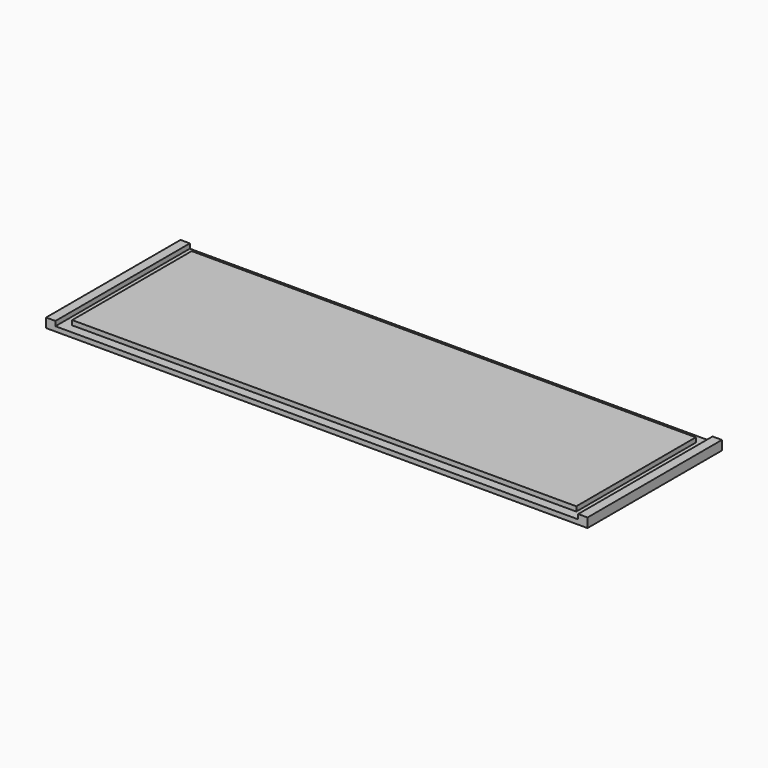
from build123d import *

# Parameters (mm, degrees)
F0_W     = 580
F0_H     = 180
F1_DEPTH = 10
F2_W     = 560
F2_H     = 180
F2_W_2   = 540
F2_H_2   = 160
F3_DEPTH = 5


with BuildPart() as f1:
    # F0 (on Top) → F1 (new body)
    with BuildSketch(Plane.XY):
        Rectangle(F0_W, F0_H)
    extrude(amount=F1_DEPTH)

    # F2 (on face) → F3 (cut)
    with BuildSketch(Plane.XY.offset(10)):
        Rectangle(F2_W, F2_H)
        Rectangle(F2_W_2, F2_H_2, mode=Mode.SUBTRACT)
    extrude(amount=-F3_DEPTH, mode=Mode.SUBTRACT)


solid = f1.part
